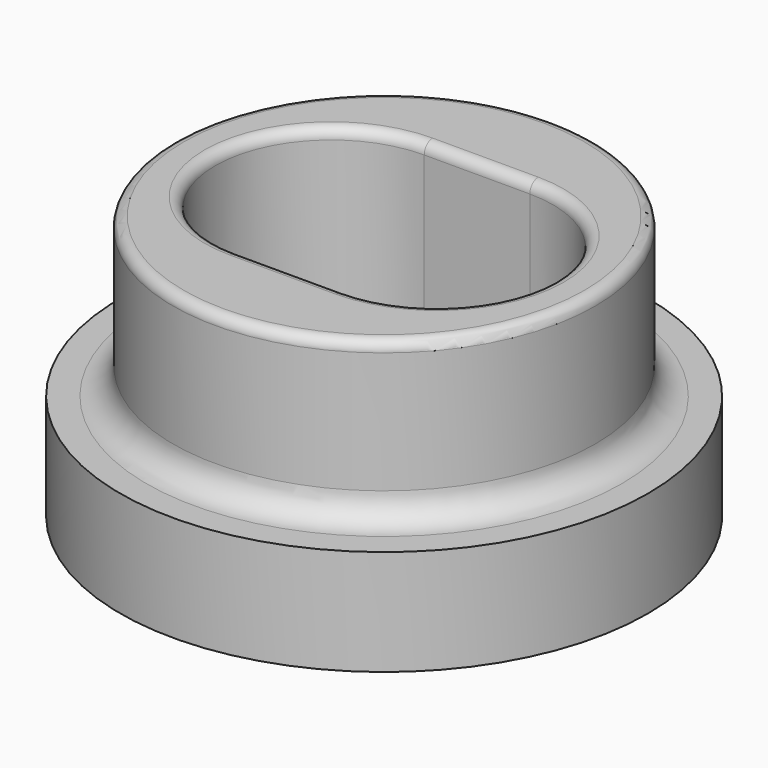
from build123d import *

# Parameters (mm, degrees)
SKETCH_R        = 5
PAD_DEPTH       = 2
SKETCH001_R     = 4
PAD001_DEPTH    = 3
POCKET_DEPTH    = 3
SKETCH003_R     = 0.5
POCKET001_DEPTH = 5.001
FILLET_R        = 0.5
FILLET001_R     = 0.5
FILLET002_R     = 0.5
FILLET003_R     = 0.2


with BuildPart() as part:
    # Sketch → Pad (new body)
    with BuildSketch(Plane.XY):
        Circle(SKETCH_R)
    extrude(amount=PAD_DEPTH)

    # Sketch001 (on Face3 of Pad) → Pad001 (join)
    with BuildSketch(Plane.XY.offset(2)):
        Circle(SKETCH001_R)
    extrude(amount=PAD001_DEPTH)

    # Sketch002 (on Face5 of Pad001) → Pocket (cut)
    with BuildSketch(Plane.XY.offset(5)):
        with BuildLine():
            ThreePointArc((-1, 2.2), (-3.2, 0), (-1, -2.2))
            Line((-1, -2.2), (1, -2.2))
            ThreePointArc((1, -2.2), (3.2, 0), (1, 2.2))
            Line((-1, 2.2), (1, 2.2))
        make_face()
    extrude(amount=-POCKET_DEPTH, mode=Mode.SUBTRACT)

    # Sketch003 (on Face5 of Pocket) → Pocket001 (cut, through all)
    with BuildSketch(Plane.XY.offset(5)):
        with Locations((-1.5, 0)):
            Circle(SKETCH003_R)
        with Locations((1.5, 0)):
            Circle(SKETCH003_R)
    extrude(amount=-POCKET001_DEPTH, mode=Mode.SUBTRACT)

    # Fillet
    fillet_edges = [part.edges().sort_by_distance(p)[0] for p in [
        (-4, 0, 2),
    ]]
    fillet(fillet_edges, radius=FILLET_R)

    # Fillet001
    fillet001_edges = [part.edges().sort_by_distance(p)[0] for p in [
        (-2, 0, 2),
    ]]
    fillet(fillet001_edges, radius=FILLET001_R)

    # Fillet002
    fillet002_edges = [part.edges().sort_by_distance(p)[0] for p in [
        (1, 0, 2),
    ]]
    fillet(fillet002_edges, radius=FILLET002_R)

    # Fillet003
    fillet003_edges = [part.edges().sort_by_distance(p)[0] for p in [
        (-4, 0, 5),
        (-3.2, 0, 5),
        (0, -2.2, 5),
        (3.2, 0, 5),
        (0, 2.2, 5),
    ]]
    fillet(fillet003_edges, radius=FILLET003_R)


solid = part.part
